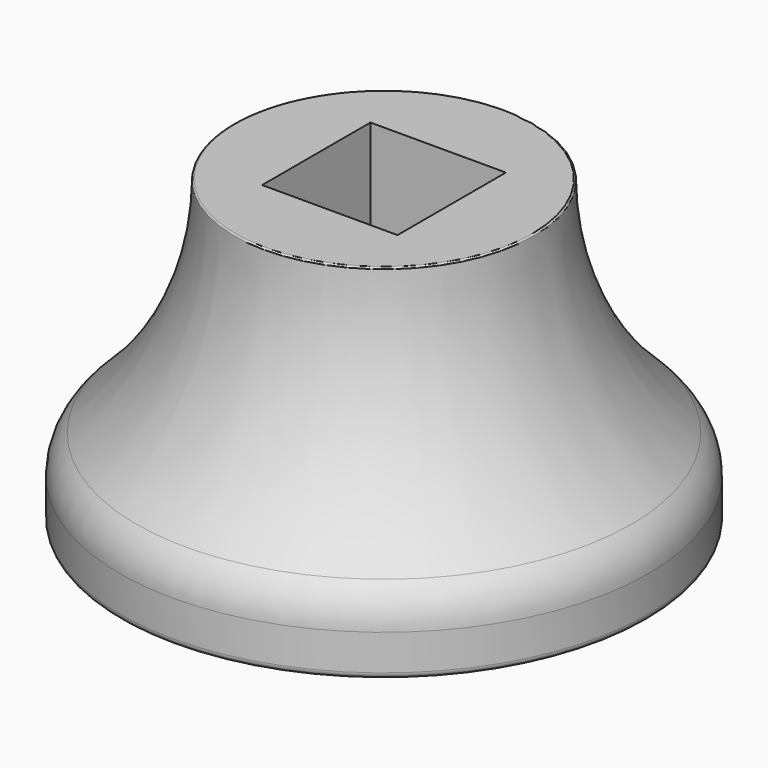
from build123d import *

# Parameters (mm, degrees)
F3_W     = 33.02
F3_H     = 33.02
F4_DEPTH = 74.073544


with BuildPart() as f1:
    # F0 (on Front) → F1 (revolve)
    with BuildSketch(Plane.XZ):
        with BuildLine():
            Line((36.18898, 0), (0, 0))
            Line((0, 0), (0, -32.849632))
            Line((0, -32.849632), (16.384334, -32.849632))
            ThreePointArc((16.384334, -32.849632), (19.961164, -33.952844), (22.295159, -36.879148))
            ThreePointArc((22.295159, -36.879148), (33.432744, -53.51277), (50.509814, -63.957715))
            ThreePointArc((50.509814, -63.957715), (53.606285, -66.275011), (54.78408, -69.958867))
            Line((54.78408, -69.958867), (54.78408, -72.548544))
            ThreePointArc((54.78408, -72.548544), (55.230449, -73.626174), (56.30808, -74.072544))
            Line((56.30808, -74.072544), (62.833311, -74.072544))
            ThreePointArc((62.833311, -74.072544), (63.910941, -73.626174), (64.357311, -72.548544))
            Line((64.357311, -72.548544), (64.357311, -63.844601))
            ThreePointArc((64.357311, -63.844601), (63.302793, -58.777774), (60.31436, -54.552373))
            ThreePointArc((60.31436, -54.552373), (42.842955, -29.919811), (36.569974, -0.378943))
            ThreePointArc((36.569974, -0.378943), (36.457659, -0.110866), (36.18898, 0))
        make_face()
    revolve(axis=Axis((0, 0, -16.424816), (0, 0, -1)))

    # F3 (on face) → F4 (cut, through all)
    with BuildSketch(Plane.XY):
        Rectangle(F3_W, F3_H)
    extrude(amount=-F4_DEPTH, mode=Mode.SUBTRACT)


solid = f1.part
